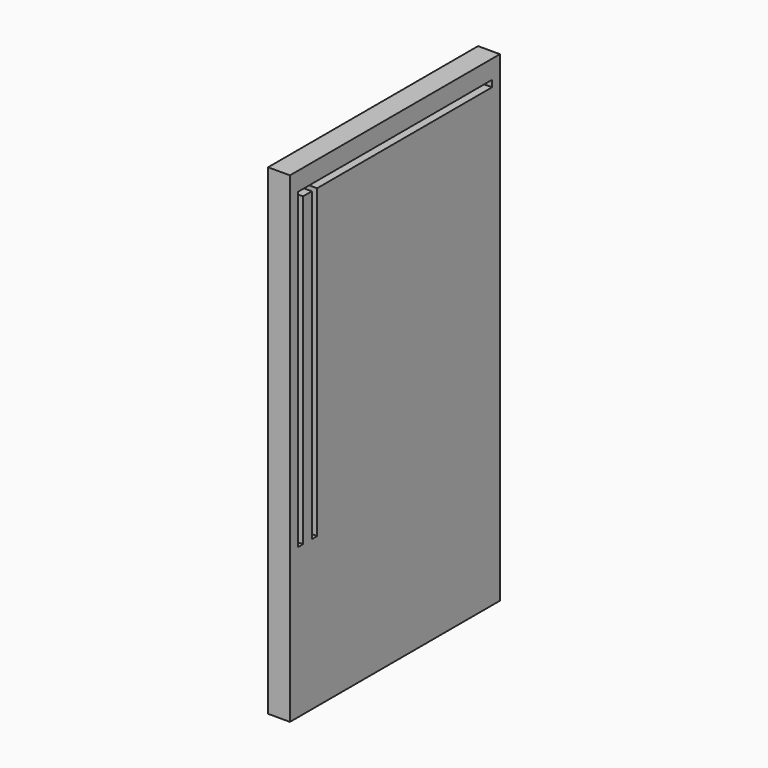
from build123d import *

# Parameters (mm, degrees)
F0_W     = 152.4
F0_H     = 279.4
F1_DEPTH = 12.7


with BuildPart() as f1:
    # F0 (on Right) → F1 (new body)
    with BuildSketch(Plane.YZ):
        Rectangle(F0_W, F0_H)
        Polygon((-66.675, -52.705), (-70.485, -52.705), (-70.485, 125.095), (-70.485, 128.905), (-66.675, 128.905), (-60.325, 128.905), (-56.515, 128.905), (70.485, 128.905), (70.485, 125.095), (-56.515, 125.095), (-56.515, 112.395), (-56.515, -52.705), (-60.325, -52.705), (-60.325, -40.005), (-60.325, 112.395), (-60.325, 125.095), (-66.675, 125.095), align=None, mode=Mode.SUBTRACT)
    extrude(amount=-F1_DEPTH)


solid = f1.part
